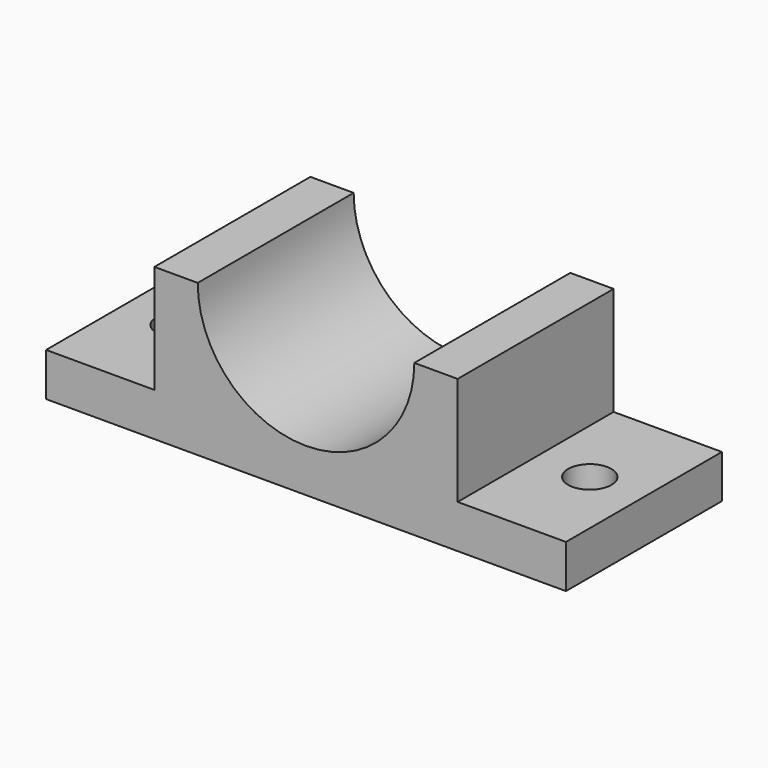
from build123d import *

# Parameters (mm, degrees)
F0_W     = 60
F0_H     = 22.5
F1_DEPTH = 17.5
F2_W     = 12.5
F2_H     = 12.5
F3_DEPTH = 22.501
F4_R     = 2.5
F5_DEPTH = 5.001
F6_R     = 2.5
F7_DEPTH = 5.001


with BuildPart() as f1:
    # F0 (on Top) → F1 (new body)
    with BuildSketch(Plane.XY):
        with Locations((-1.888031, -13.853303)):
            Rectangle(F0_W, F0_H)
    extrude(amount=F1_DEPTH)

    # F2 (on face) → F3 (cut, through all)
    with BuildSketch(Plane.XZ.offset(25.103303)):
        with Locations((-25.638031, 11.25)):
            Rectangle(F2_W, F2_H)
        with BuildLine():
            ThreePointArc((-14.388031, 17.5), (-1.888031, 5), (10.611969, 17.5))
            Line((10.611969, 17.5), (-14.388031, 17.5))
        make_face()
        with Locations((21.861969, 11.25)):
            Rectangle(F2_W, F2_H)
    extrude(amount=-F3_DEPTH, mode=Mode.SUBTRACT)

    # F4 (on face) → F5 (cut, through all)
    with BuildSketch(Plane.XY.offset(5)):
        with Locations((21.861969, -13.853303)):
            Circle(F4_R)
    extrude(amount=-F5_DEPTH, mode=Mode.SUBTRACT)

    # F6 (on face) → F7 (cut, through all)
    with BuildSketch(Plane.XY.offset(5)):
        with Locations((-25.638031, -13.853303)):
            Circle(F6_R)
    extrude(amount=-F7_DEPTH, mode=Mode.SUBTRACT)


solid = f1.part
